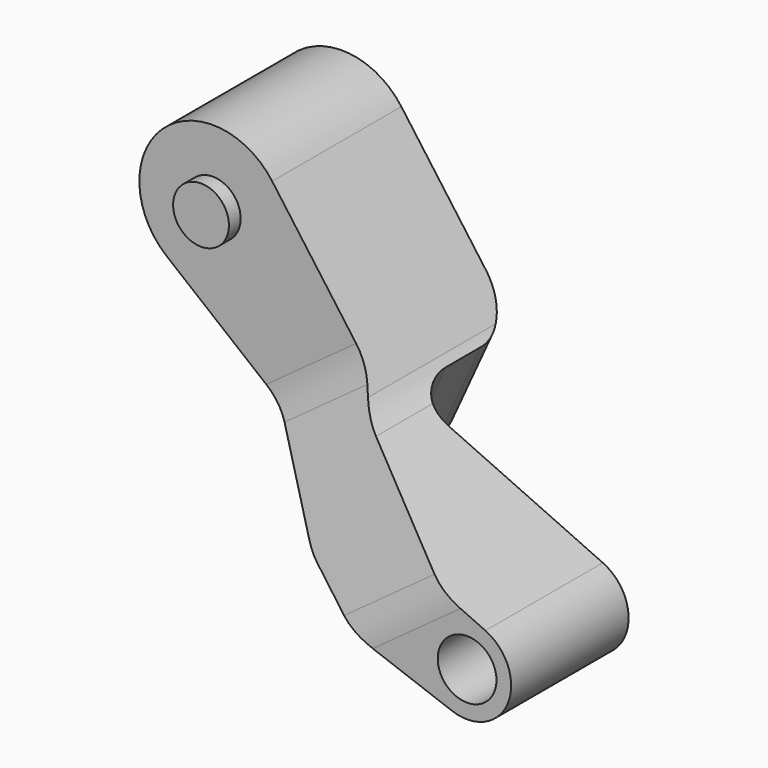
from build123d import *

# Parameters (mm, degrees)
F0_R          = 10
F0_R_2        = 9.5
F1_DEPTH      = 95
F3_DEPTH      = 103.0741500701
F3_DEPTH_BACK = 97.783322066
F4_W          = 111.3981074931
F4_H          = 45
F5_DEPTH      = 88.2146892838
F5_DEPTH_BACK = 25
F6_R          = 15
F7_R          = 20
F8_R          = 9.5
F9_DEPTH      = 5
F9_DEPTH_BACK = 65
F10_R         = 20


with BuildPart() as f1:
    # F0 (on Front) → F1 (new body)
    with BuildSketch(Plane.XZ):
        with BuildLine():
            Line((40.472202318, 47.836435473), (0.5161550447, 102.8184539019))
            ThreePointArc((0.5161550447, 102.8184539019), (-36.9259098509, 106.247026954), (-35.422653502, 68.6783756984))
            Line((-35.422653502, 68.6783756984), (34.0419716339, 12.5334943419))
            Line((34.0419716339, 12.5334943419), (93.7381570012, -9.3650366096))
            ThreePointArc((93.7381570012, -9.3650366096), (112.7797489078, -0.9804332321), (105.1254790408, 18.3662964382))
            Line((105.1254790408, 18.3662964382), (40.472202318, 47.836435473))
        make_face()
        with Locations((98.9040414947, 4.7173508797)):
            Circle(F0_R, mode=Mode.SUBTRACT)
        with Locations((-19.7076478051, 88.121590349)):
            Circle(F0_R_2, mode=Mode.SUBTRACT)
    extrude(amount=F1_DEPTH)

    # F2 (on face) → F3 (cut, two sides)
    with BuildSketch(Plane(origin=(49.2343596113, 0, 35.7791593745), x_dir=(0, 1, 0), z_dir=(0.808952114, 0, 0.5878745421))) as f3_sk:
        Polygon((-55, 28.273306787), (-55, 107.9234746602), (-95, 107.9234746602), (-95, -12.0765253398), (-95, -32.8742563725), align=None)
    extrude(amount=-F3_DEPTH, mode=Mode.SUBTRACT)
    extrude(f3_sk.sketch, amount=F3_DEPTH_BACK, mode=Mode.SUBTRACT)

    # F4 (on face) → F5 (cut, two sides)
    with BuildSketch(Plane(origin=(25.0160459603, 0, 54.8816325595), x_dir=(0.9099297039, 0, -0.4147625031), z_dir=(0.4147625031, 0, 0.9099297039))) as f5_sk:
        with Locations((71.1682909773, -22.5)):
            Rectangle(F4_W, F4_H)
    extrude(amount=-F5_DEPTH, mode=Mode.SUBTRACT)
    extrude(f5_sk.sketch, amount=F5_DEPTH_BACK, mode=Mode.SUBTRACT)

    # F6
    f6_edges = [f1.edges().sort_by_distance(p)[0] for p in [
        (32.605588, -45, 34.23539),
        (32.605588, 0, 34.23539),
    ]]
    fillet(f6_edges, radius=F6_R)

    # F7
    f7_edges = [f1.edges().sort_by_distance(p)[0] for p in [
        (40.472202, -50.159062, 47.836435),
        (34.041972, -62.100604, 12.533494),
    ]]
    fillet(f7_edges, radius=F7_R)

    # F8 (on face) → F9 (join, two sides)
    with BuildSketch(Plane.XZ.offset(55)) as f9_sk:
        with Locations((-19.7076478051, 88.121590349)):
            Circle(F8_R)
    extrude(amount=F9_DEPTH)
    extrude(f9_sk.sketch, amount=-F9_DEPTH_BACK)

    # F10
    f10_edges = [f1.edges().sort_by_distance(p)[0] for p in [
        (17.967044, -55, 48.007383),
        (75.23055, -95, 14.032807),
    ]]
    fillet(f10_edges, radius=F10_R)


solid = f1.part
